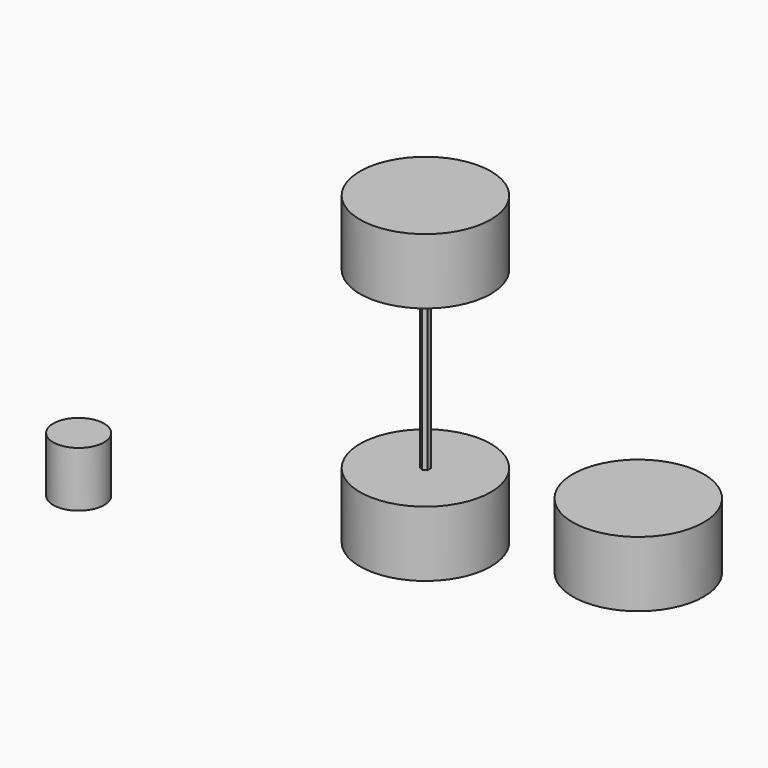
from build123d import *

# Parameters (mm, degrees)
F0_R     = 45
F1_DEPTH = 45
F3_DEPTH = 120
F4_R     = 45
F5_DEPTH = 45
F6_R     = 45
F7_DEPTH = 45
F8_R     = 17.5
F9_DEPTH = 38


with BuildPart() as f1:
    # F0 (on Top) → F1 (new body)
    with BuildSketch(Plane.XY):
        Circle(F0_R)
    extrude(amount=F1_DEPTH)

    # F2 (on face) → F3 (join)
    with BuildSketch(Plane.XY.offset(45)):
        Polygon((2.476471, 1.483383), (-0.046412, 2.886378), (-2.522883, 1.402995), (-2.476471, -1.483383), (0.046412, -2.886378), (2.522883, -1.402995), align=None)
    extrude(amount=F3_DEPTH)

    # F4 (on face) → F5 (join)
    with BuildSketch(Plane.XY.offset(165)):
        Circle(F4_R)
    extrude(amount=F5_DEPTH)


with BuildPart() as f7:
    # F6 (on Top) → F7 (new body)
    with BuildSketch(Plane.XY):
        with Locations((111.234508, 43.919344)):
            Circle(F6_R)
    extrude(amount=F7_DEPTH)


with BuildPart() as f9:
    # F8 (on Top) → F9 (new body)
    with BuildSketch(Plane.XY):
        with Locations((-179.280102, -73.982216)):
            Circle(F8_R)
    extrude(amount=F9_DEPTH)


solid = Compound([f1.part, f7.part, f9.part])
